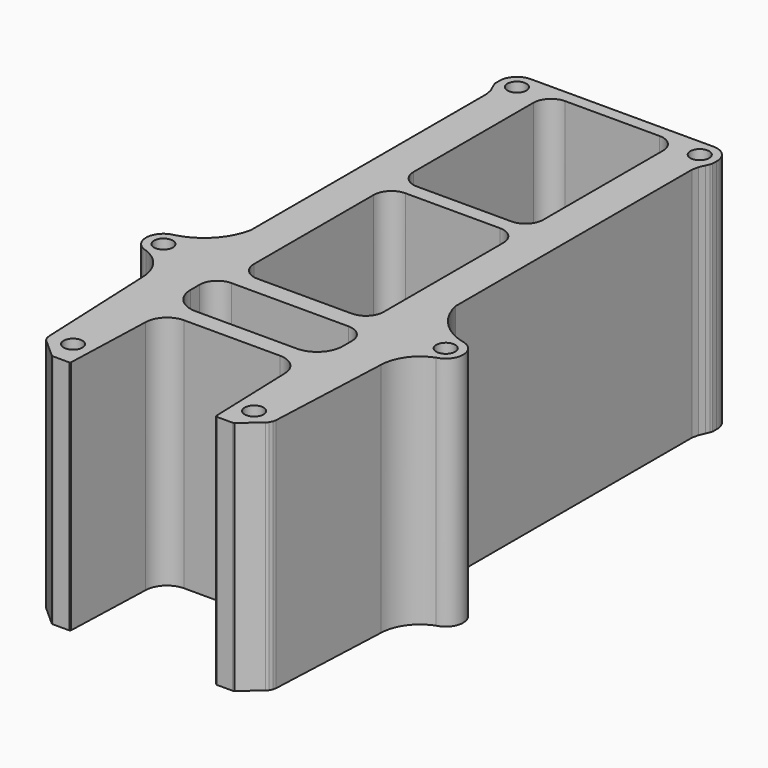
from build123d import *

# Parameters (mm, degrees)
F0_R     = 2.3945844673
F1_DEPTH = 60
F3_SCALE = 0.6563


with BuildPart() as f1:
    # F0 (on Top) → F1 (new body)
    with BuildSketch(Plane.XY):
        with BuildLine():
            Line((-27.0389984867, 83.2772081509), (-26.4251961202, 81.9096698061))
            Line((-26.4251961202, 81.9096698061), (-26.0784868151, 80.2167370168))
            Line((-26.0784868151, 80.2167370168), (-26.0784868151, 5.1366092342))
            ThreePointArc((-26.0784868151, 5.1366092342), (-29.7252239834, -1.8462109586), (-36.4788286904, -5.9017372231))
            ThreePointArc((-36.4788286904, -5.9017372231), (-40.3150914077, -10.07792875), (-36.9143450669, -14.6158150015))
            ThreePointArc((-36.9143450669, -14.6158150015), (-32.1922887959, -18.1949867477), (-30.2764291391, -23.8019259832))
            Line((-30.2764291391, -23.8019259832), (-28.8915335984, -55.4398973488))
            Line((-28.8915335984, -55.4398973488), (-28.7443264889, -56.2413544219))
            Line((-28.7443264889, -56.2413544219), (-28.3286040912, -57.0579545856))
            Line((-28.3286040912, -57.0579545856), (-27.844521729, -57.4991165442))
            Line((-27.844521729, -57.4991165442), (-23.1986730857, -61.6394566898))
            Line((-23.1986730857, -61.6394566898), (-22.8441298419, -61.7180224508))
            Line((-22.8441298419, -61.7180224508), (-18.6802665162, -61.7180224508))
            Line((-18.6802665162, -61.7180224508), (-18.4410806307, -61.4369034612))
            Line((-18.4410806307, -61.4369034612), (-17.6754507656, -38.8146494524))
            ThreePointArc((-17.6754507656, -38.8146494524), (-16.0548504259, -34.9431431488), (-12.175320372, -33.3418458372))
            Line((-12.175320372, -33.3418458372), (0.0142386856, -33.3418458372))
            Line((0.0142386856, -33.3418458372), (0.0142386856, -28.883429572))
            Line((0.0142386856, -28.883429572), (-12.867449671, -28.883429572))
            ThreePointArc((-12.867449671, -28.883429572), (-17.4637841926, -26.979565476), (-19.3676482886, -22.3832309544))
            Line((-19.3676482886, -22.3832309544), (-19.3676482886, -19.4763654619))
            ThreePointArc((-19.3676482886, -19.4763654619), (-18.0495706302, -16.2942445028), (-14.867449671, -14.9761668444))
            Line((-14.867449671, -14.9761668444), (0.0142386856, -14.9761668444))
            Line((0.0142386856, -14.9761668444), (0.0142386856, -10.3005459473))
            Line((0.0142386856, -10.3005459473), (-11.9863399565, -10.3005459473))
            ThreePointArc((-11.9863399565, -10.3005459473), (-15.1684609157, -8.9824682889), (-16.4865385741, -5.8003473297))
            Line((-16.4865385741, -5.8003473297), (-16.4865385741, 32.2654335052))
            ThreePointArc((-16.4865385741, 32.2654335052), (-15.1684609157, 35.4475544644), (-11.9863399565, 36.7656321228))
            Line((-11.9863399565, 36.7656321228), (0.0142386856, 36.7656321228))
            Line((0.0142386856, 36.7656321228), (0.0142386856, 40.4444549151))
            Line((0.0142386856, 40.4444549151), (-11.9852216709, 40.4444549151))
            ThreePointArc((-11.9852216709, 40.4444549151), (-15.1673426301, 41.7625325735), (-16.4854202885, 44.9446535327))
            Line((-16.4854202885, 44.9446535327), (-16.4854202885, 83.0104343675))
            ThreePointArc((-16.4854202885, 83.0104343675), (-15.1673426301, 86.1925553267), (-11.9852216709, 87.5106329851))
            Line((-11.9852216709, 87.5106329851), (0.0142386856, 87.5106329851))
            Line((0.0142386856, 87.5106329851), (0.0142386856, 90.6373629034))
            Line((0.0142386856, 90.6373629034), (-23.213673197, 90.6373629034))
            ThreePointArc((-23.213673197, 90.6373629034), (-26.4197034776, 89.2897278228), (-27.6474967488, 86.0359186467))
            Line((-27.6474967488, 86.0359186467), (-27.6474967488, 84.8186316031))
            Line((-27.6474967488, 84.8186316031), (-27.4746276334, 84.2558386951))
            Line((-27.4746276334, 84.2558386951), (-27.0389984867, 83.2772081509))
        make_face()
        with Locations((-23.0123251677, -55.1256909966)):
            Circle(F0_R, mode=Mode.SUBTRACT)
        with Locations((-35.8826853335, -10.2994536757)):
            Circle(F0_R, mode=Mode.SUBTRACT)
        with Locations((-23.2493666078, 86.2348794977)):
            Circle(F0_R, mode=Mode.SUBTRACT)
    extrude(amount=F1_DEPTH)

    # F2: F1 across plane


with BuildPart() as f1_1:
    add(f1.part)
    add(f1.part.mirror(Plane.YZ))


with BuildPart() as f1_2:
    # F3: moved
    add(f1_1.part.scale(F3_SCALE).moved(Location((0.5205121011, -3.0246793772, 0))))


solid = f1_2.part
